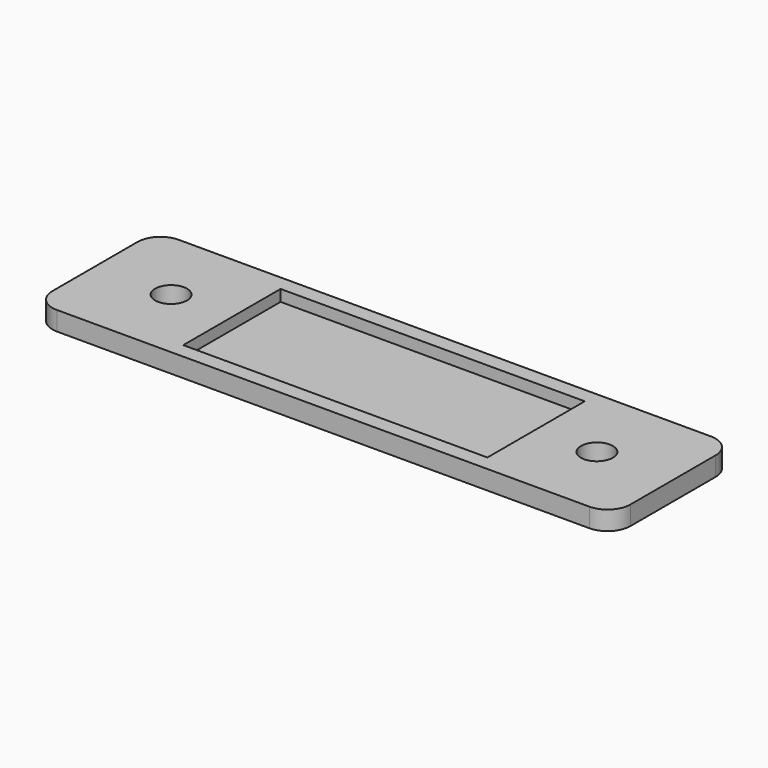
from build123d import *

# Parameters (mm, degrees)
CYLINDER002_R     = 2.1
CYLINDER002_DEPTH = 10
CYLINDER001_R     = 2.1
CYLINDER001_DEPTH = 10
BOX012_W          = 40
BOX012_H          = 16
BOX012_DEPTH      = 2.5
BOX011_W          = 76
BOX011_H          = 20
BOX011_DEPTH      = 2.5
FILLET014_R       = 3


with BuildPart() as cylinder002:
    # Cylinder002 → Cylinder002 (new body)
    with BuildSketch(Plane(origin=(28, 0, -2), x_dir=(1, 0, 0), z_dir=(0, 0, 1))):
        Circle(CYLINDER002_R)
    extrude(amount=CYLINDER002_DEPTH)


with BuildPart() as fusion005:
    # Cylinder001 → Cylinder001 (new body)
    with BuildSketch(Plane(origin=(-28, 0, -2), x_dir=(1, 0, 0), z_dir=(0, 0, 1))):
        Circle(CYLINDER001_R)
    extrude(amount=CYLINDER001_DEPTH)

    # Fusion005: union Cylinder002
    add(cylinder002.part)


with BuildPart() as cube012:
    # Box012 → Box012 (new body)
    with BuildSketch(Plane(origin=(-20, -8, 1), x_dir=(1, 0, 0), z_dir=(0, 0, 1))):
        with Locations((20, 8)):
            Rectangle(BOX012_W, BOX012_H)
    extrude(amount=BOX012_DEPTH)


with BuildPart() as cut017:
    # Box011 → Box011 (new body)
    with BuildSketch(Plane(origin=(-38, -10, 0), x_dir=(1, 0, 0), z_dir=(0, 0, 1))):
        with Locations((38, 10)):
            Rectangle(BOX011_W, BOX011_H)
    extrude(amount=BOX011_DEPTH)

    # Cut016: cut Cube012
    add(cube012.part, mode=Mode.SUBTRACT)

    # Fillet014
    fillet014_edges = [cut017.edges().sort_by_distance(p)[0] for p in [
        (-38, -10, 1.25),
        (-38, 10, 1.25),
        (38, -10, 1.25),
        (38, 10, 1.25),
    ]]
    fillet(fillet014_edges, radius=FILLET014_R)

    # Cut017: cut Fusion005
    add(fusion005.part, mode=Mode.SUBTRACT)


solid = cut017.part
